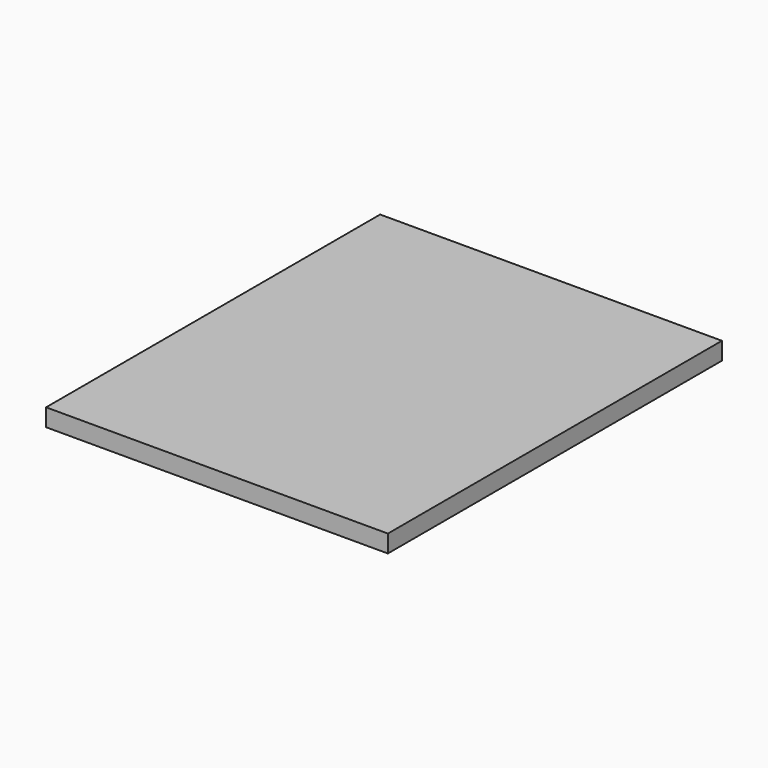
from build123d import *

# Parameters (mm, degrees)
PAD_DEPTH = 19


with BuildPart() as part:
    # Sketch → Pad (new body)
    with BuildSketch(Plane.XY):
        Polygon((0, 413.879036), (0, 452), (370, 452), (370, 0), (0, 0), align=None)
    extrude(amount=-PAD_DEPTH)


solid = part.part
